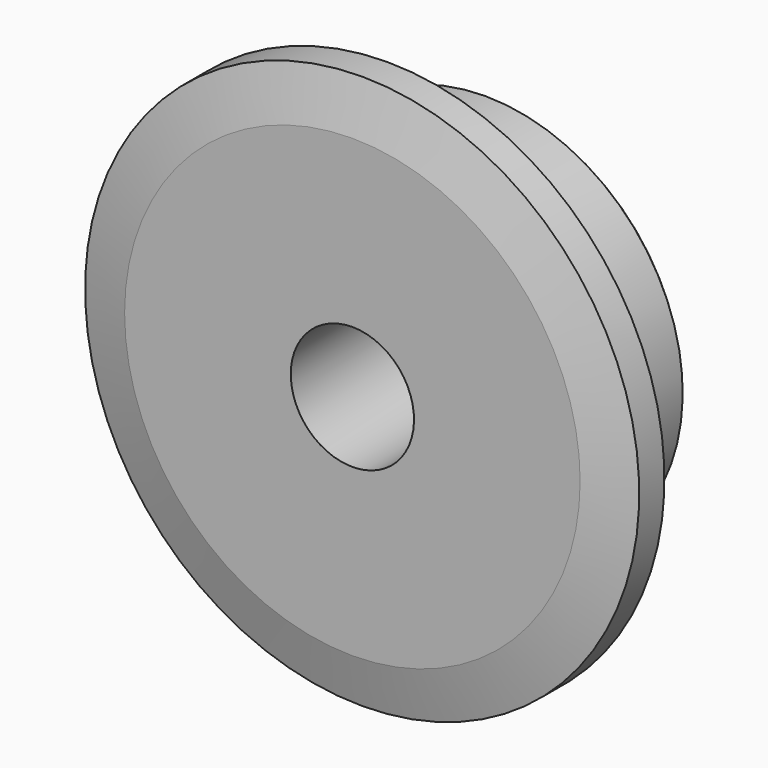
from build123d import *

# Parameters (mm, degrees)
F0_W     = 28.4
F0_H     = 40.5
F0_H_2   = 68.75
F0_W_2   = 59.1
F2_R     = 6.25
F3_SIZE  = 3.125
F4_SIZE2 = 25
F4_SIZE  = 6.2


with BuildPart() as f1:
    # F0 (on Right) → F1 (revolve)
    with BuildSketch(Plane.YZ):
        with Locations((14.2, 120.25)):
            Rectangle(F0_W, F0_H)
        with Locations((14.2, 65.625)):
            Rectangle(F0_W, F0_H_2)
        with Locations((57.95, 65.625)):
            Rectangle(F0_W_2, F0_H_2)
    revolve(axis=Axis((0, 43.75, 0), (0, 1, 0)))

    # F2
    f2_edges = [f1.edges().sort_by_distance(p)[0] for p in [
        (0, 28.4, -100),
    ]]
    fillet(f2_edges, radius=F2_R)

    # F3
    f3_edges = [f1.edges().sort_by_distance(p)[0] for p in [
        (0, 87.5, -100),
    ]]
    chamfer(f3_edges, length=F3_SIZE)

    # F4
    f4_edges = [f1.edges().sort_by_distance(p)[0] for p in [
        (0, 0, -140.5),
        (0, 28.4, -140.5),
    ]]
    f4_side = f1.faces().sort_by_distance((0, 14.2, -140.5))[0]
    chamfer(f4_edges, length=F4_SIZE, length2=F4_SIZE2, reference=f4_side)


solid = f1.part
